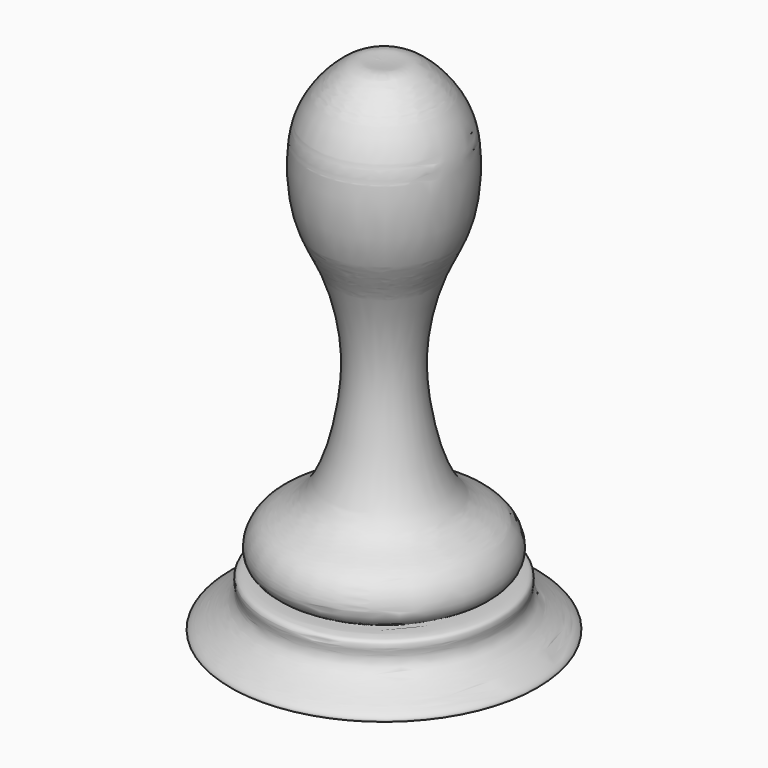
from build123d import *


with BuildPart() as f1:
    # F0 (on Front) → F1 (revolve)
    with BuildSketch(Plane.XZ):
        with BuildLine():
            Line((0, -90.0550938917), (0, 117.8303435445))
            add(Edge.make_bspline(
                [(0, 117.8303435445), (-5.697334532, 117.8303435445), (-9.6578445766, 119.2574666057), (-19.5741002456, 112.291713989), (-29.4278304396, 99.4073020546), (-32.029276378, 82.5664548578), (-30.1378233155, 59.5526533874), (-18.9541374009, 41.6279749557), (-12.824496736, 14.9996840942), (-14.5218486916, -9.449392955), (-23.4354819344, -42.8626620617), (-43.6486307872, -46.9362924604), (-47.7448830665, -63.9243850949), (-33.4607352932, -68.2012721593), (-51.7935592751, -65.8982605309), (-43.4933154226, -78.1162573414), (-82.9258568203, -93.8884798521), (-34.6787679583, -90.0550938917), (0, -90.0550938917)],
                knots=[0, 0, 0, 0, 0.0467152663, 0.0935045232, 0.1519706268, 0.2121655974, 0.2812327978, 0.3486280679, 0.4234183883, 0.4979897763, 0.580213267, 0.6427401778, 0.6957353571, 0.7338421734, 0.7778143825, 0.8193053075, 0.8833497375, 1, 1, 1, 1], degree=3))
        make_face()
    revolve(axis=Axis((0, 0, -9.8594344148), (0, 0, -1)))


solid = f1.part
